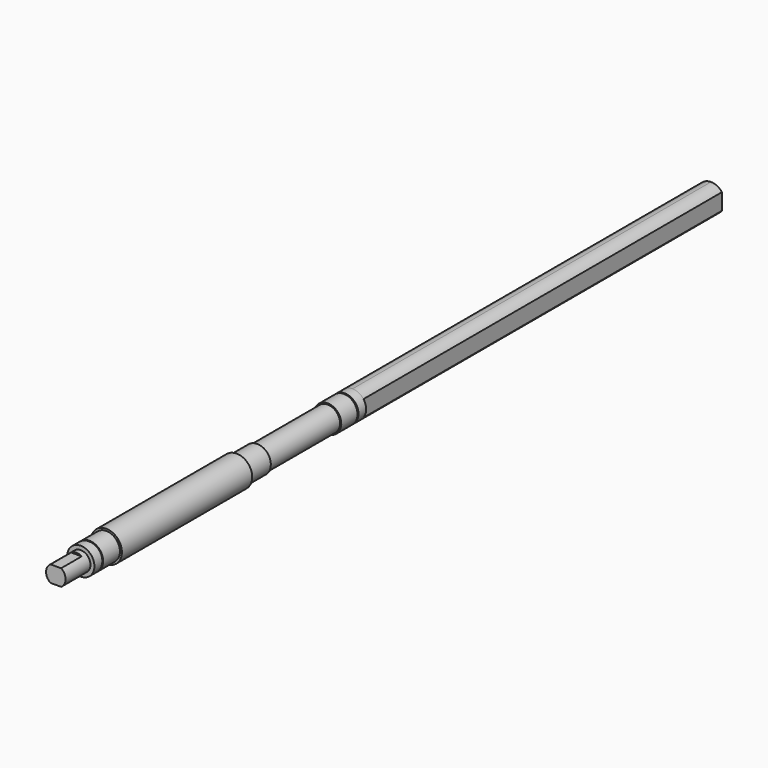
from build123d import *

# Parameters (mm, degrees)
F3_DEPTH = 33
F0_W     = 575
F0_H     = 17.5
F7_DEPTH = 575


with BuildPart() as f1:
    # F0 (on Right) → F1 (revolve)
    with BuildSketch(Plane.YZ):
        Polygon((-9.479858, 17.5), (-21.879858, 17.5), (-21.879858, 12.5), (-61.879858, 12.5), (-61.879858, 0), (-21.879858, 0), (19.120142, 0), (19.120142, 17.5), (-7.879858, 17.5), (-7.879858, 16.5), (-9.479858, 16.5), align=None)
    revolve(axis=Axis((0, 215.2909, 0), (0, 1, 0)))

    # F2 (on face) → F3 (cut)
    with BuildSketch(Plane.XZ.offset(61.879858)):
        with BuildLine():
            ThreePointArc((6.78233, 10.5), (0, 12.5), (-6.78233, 10.5))
            Line((-6.78233, 10.5), (6.78233, 10.5))
        make_face()
        with BuildLine():
            Line((6.78233, -10.5), (-6.78233, -10.5))
            ThreePointArc((-6.78233, -10.5), (0, -12.5), (6.78233, -10.5))
        make_face()
    extrude(amount=-F3_DEPTH, mode=Mode.SUBTRACT)

    # F0 (on Right) → F4 (revolve)
    with BuildSketch(Plane.YZ):
        Polygon((19.120142, 20), (19.120142, 17.5), (19.120142, 0), (414.120142, 0), (414.120142, 17.5), (401.720142, 17.5), (401.720142, 13.727913), (400.120142, 13.727913), (400.120142, 17.5), (374.120142, 17.5), (374.120142, 16), (261.120142, 16), (261.120142, 17.5), (228.120142, 17.5), (228.120142, 20), align=None)
    revolve(axis=Axis((0, 216.620142, 0), (0, 1, 0)))

    # F0 (on Right) → F5 (revolve)
    with BuildSketch(Plane.YZ):
        with Locations((701.620142, 8.75)):
            Rectangle(F0_W, F0_H)
    revolve(axis=Axis((0, 701.620142, 0), (0, 1, 0)))

    # F6 (on face) → F7 (cut)
    with BuildSketch(Plane(origin=(0, 989.120142, 0), x_dir=(-1, 0, 0), z_dir=(0, 1, 0))):
        with BuildLine():
            ThreePointArc((17.5, 0), (16.601958, 5.533986), (14, 10.5))
            Line((14, 10.5), (14, -10.5))
            ThreePointArc((14, -10.5), (16.601958, -5.533986), (17.5, 0))
        make_face()
        with BuildLine():
            Line((-14, -10.5), (-14, 10.5))
            ThreePointArc((-14, 10.5), (-17.5, 0), (-14, -10.5))
        make_face()
    extrude(amount=-F7_DEPTH, mode=Mode.SUBTRACT)


solid = f1.part
